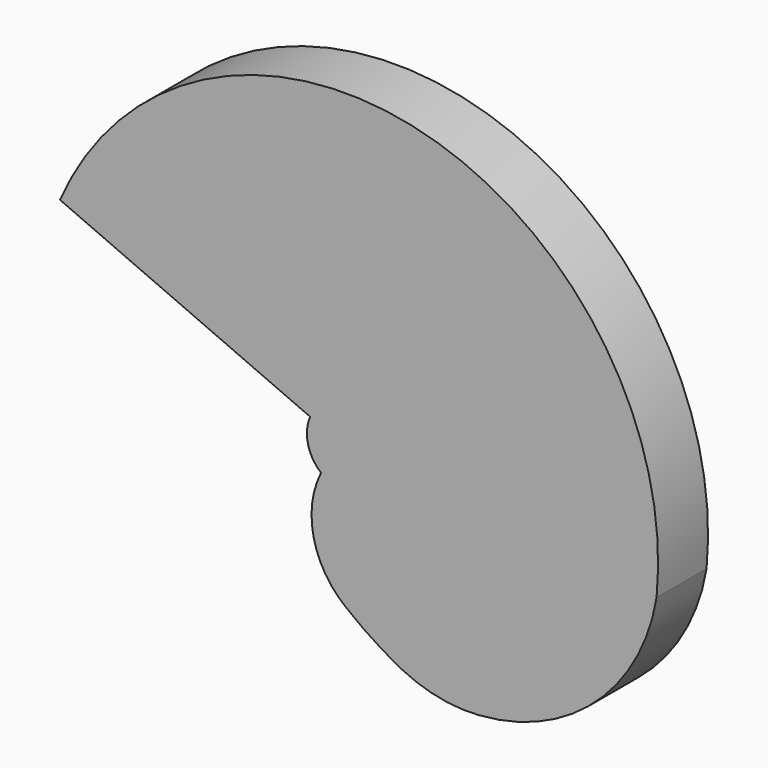
from build123d import *

# Parameters (mm, degrees)
F0_R     = 5
F1_DEPTH = 18.75
F0_R_2   = 6.7
F0_R_3   = 5.2
F2_DEPTH = 25
F3_DEPTH = 25
F4_R     = 100
F4_R_2   = 5
F5_DEPTH = 20
F7_DEPTH = 20


with BuildPart() as f1:
    # F0 (on Front) → F1 (new body, symmetric)
    with BuildSketch(Plane.XZ):
        with Locations((-51.7163668807, 0)):
            Circle(F0_R)
    extrude(amount=F1_DEPTH, both=True)

    # F2 (add): a face of the model
    f2_faces = [f1.faces().sort_by_distance(p)[0] for p in [
        (-51.7163668807, -18.75, 0),
    ]]
    extrude(f2_faces, amount=F2_DEPTH)

    # F3 (add): a face of the model
    f3_faces = [f1.faces().sort_by_distance(p)[0] for p in [
        (-51.7163668807, 18.75, 0),
    ]]
    extrude(f3_faces, amount=F3_DEPTH)

    # F4 (on face) → F5 (join)
    with BuildSketch(Plane.XZ.offset(43.75)):
        with Locations((-51.7163668807, 0)):
            Circle(F4_R)
        with Locations((-51.7163668807, 0)):
            Circle(F4_R_2, mode=Mode.SUBTRACT)
    extrude(amount=-F5_DEPTH)

    # F6 (on face) → F7 (cut)
    with BuildSketch(Plane.XZ.offset(43.75)):
        with BuildLine():
            ThreePointArc((-59.6655482209, -9.6467878602), (-63.8748890556, -2.9017819565), (-63.1652882908, 5.0171903038))
            Line((-63.1652882908, 5.0171903038), (-143.3077381617, 40.1375224305))
            ThreePointArc((-143.3077381617, 40.1375224305), (-106.8702714682, -83.414907593), (21.0834731349, -68.5578827977))
            ThreePointArc((21.0834731349, -68.5578827977), (-7.232450883, -66.264251094), (-33.946054473, -56.598037636))
            ThreePointArc((-33.946054473, -56.598037636), (-43.1208155263, -51.2211789669), (-51.7163668807, -44.9599213898))
            ThreePointArc((-51.7163668807, -44.9599213898), (-62.0284567829, -28.7299606949), (-59.6655482209, -9.6467878602))
        make_face()
        with BuildLine():
            ThreePointArc((-33.946054473, -56.598037636), (-7.232450883, -66.264251094), (21.0834731349, -68.5578827977))
            ThreePointArc((21.0834731349, -68.5578827977), (39.3024442467, -41.4195125631), (47.7967649051, -9.8557902871))
            ThreePointArc((47.7967649051, -9.8557902871), (28.3071212669, -45.568429884), (-9.1123972088, -61.5377277136))
            ThreePointArc((-9.1123972088, -61.5377277136), (-21.8639782121, -60.7508072156), (-33.946054473, -56.598037636))
        make_face()
    extrude(amount=-F7_DEPTH, mode=Mode.SUBTRACT)


with BuildPart() as f1b:
    # F0 (on Front) → F1, piece 2 (new body, symmetric)
    with BuildSketch(Plane.XZ):
        with Locations((-51.7163668807, 0)):
            Circle(F0_R_2)
        with Locations((-51.7163668807, 0)):
            Circle(F0_R_3, mode=Mode.SUBTRACT)
    extrude(amount=F1_DEPTH, both=True)


solid = Compound([f1.part, f1b.part])
